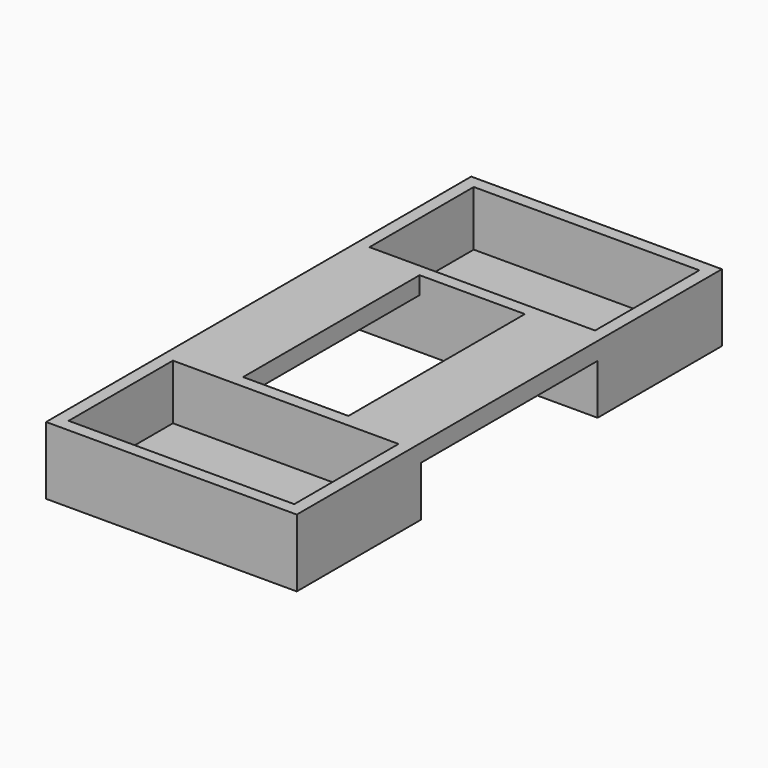
from build123d import *

# Parameters (mm, degrees)
F1_W     = 114.3
F1_H     = 66.04
F2_DEPTH = 8.89
F3_W     = 127
F3_H     = 78.74
F3_W_2   = 114.3
F3_H_2   = 66.04
F4_DEPTH = 19.05
F5_W     = 127
F5_H     = 78.74
F6_DEPTH = 6.35


with BuildPart() as f2:
    # F1 (on Top) → F2 (new body)
    with BuildSketch(Plane.XY):
        Polygon((-63.5, 0), (-63.5, -55.88), (-63.5, -134.62), (63.5, -134.62), (63.5, -55.88), (63.5, 0), (26.67, 0), (26.67, -55.88), (-26.67, -55.88), (-26.67, 0), align=None)
        with Locations((0, -95.25)):
            Rectangle(F1_W, F1_H, mode=Mode.SUBTRACT)
    extrude(amount=F2_DEPTH)

    # F3 (on Top) → F4 (join)
    with BuildSketch(Plane.XY):
        with Locations((0, -95.25)):
            Rectangle(F3_W, F3_H)
        with Locations((0, -95.25)):
            Rectangle(F3_W_2, F3_H_2, mode=Mode.SUBTRACT)
    extrude(amount=-F4_DEPTH)

    # F5 (on face) → F6 (join)
    with BuildSketch(Plane(origin=(0, 0, -19.05), x_dir=(1, 0, 0), z_dir=(0, 0, -1))):
        with Locations((0, 95.25)):
            Rectangle(F5_W, F5_H)
    extrude(amount=F6_DEPTH)

    # F7: F2 across plane


with BuildPart() as f2_1:
    add(f2.part)
    add(f2.part.mirror(Plane.XZ))


solid = f2_1.part
